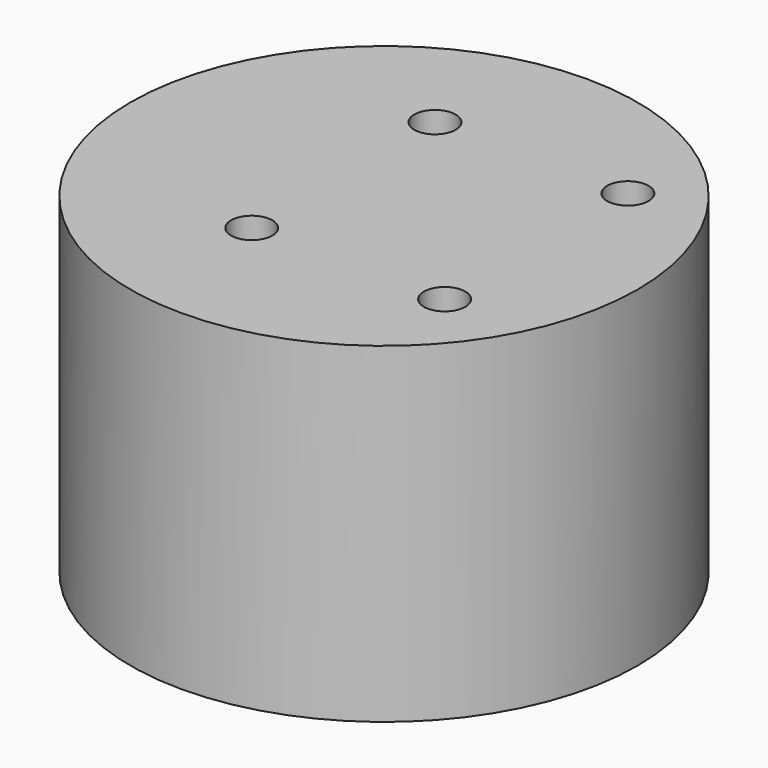
from build123d import *

# Parameters (mm, degrees)
F0_R          = 38.900344
F1_DEPTH      = 25.4
F1_DEPTH_BACK = 25.4
F3_D          = 6.35


with BuildPart() as f1:
    # F0 (on Top) → F1 (new body, two sides)
    with BuildSketch(Plane.XY) as f1_sk:
        Circle(F0_R)
    extrude(amount=F1_DEPTH)
    extrude(f1_sk.sketch, amount=-F1_DEPTH_BACK)

    # F3 (through all)
    with Locations(Plane(origin=(0, 0, -25.4), x_dir=(1, 0, 0), z_dir=(0, 0, -1))):
        with Locations((22.404708, 16.379323), (-7.191926, -18.767077), (-7.191926, 16.379323), (22.404708, -18.767077), (22.404708, 16.379323), (-7.191926, -18.767077), (22.404708, -18.767077), (-7.191926, 16.379323)):
            Hole(F3_D / 2)


solid = f1.part
